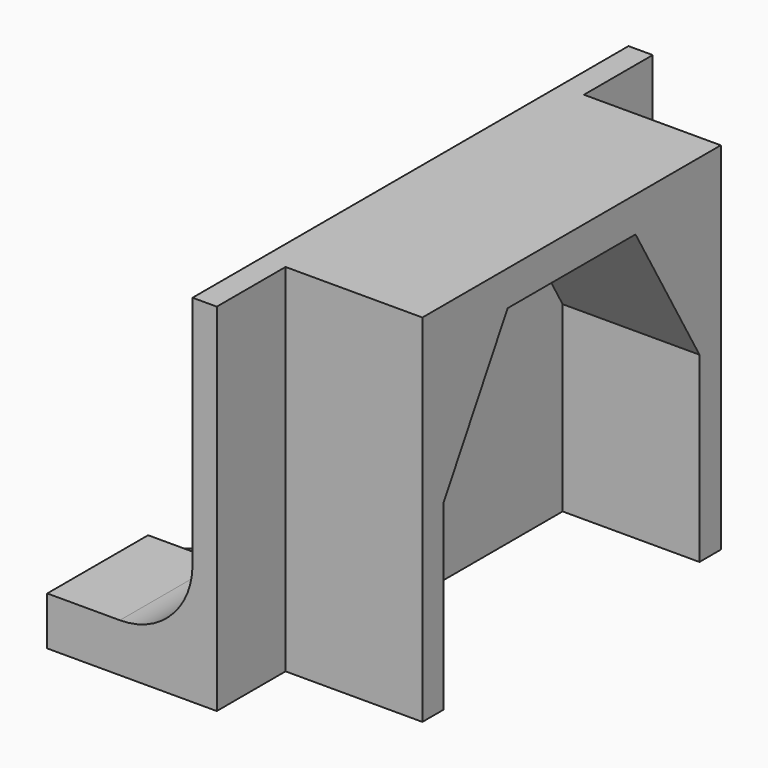
from build123d import *

# Parameters (mm, degrees)
PAD011_DEPTH = 5.65
SKETCH019_W  = 22.5
SKETCH019_H  = 14.7
PAD012_DEPTH = 1
PAD016_DEPTH = 6
FILLET_R     = 3


with BuildPart() as part:
    # Sketch018 → Pad011 (new body)
    with BuildSketch(Plane.YZ.offset(31.6)):
        Polygon((-6.6, -7.985767665), (-3.3, -2.27), (3.3, -2.27), (6.6, -7.985767665), (6.6, -15.52), (7.7, -15.52), (7.7, -0.82), (-7.7, -0.82), (-7.7, -15.52), (-6.6, -15.52), align=None)
    extrude(amount=-PAD011_DEPTH)

    # Sketch019 → Pad012 (new body)
    with BuildSketch(Plane(origin=(25.95, 0, 0), x_dir=(0, 1, 0), z_dir=(-1, 0, 0))):
        with Locations((0, 8.17)):
            Rectangle(SKETCH019_W, SKETCH019_H)
    extrude(amount=PAD012_DEPTH)

    # Sketch027 → Pad016 (new body)
    with BuildSketch(Plane(origin=(24.95, 0, 0), x_dir=(0, 1, 0), z_dir=(-1, 0, 0))):
        with BuildLine():
            Line((-11.25, 15.52), (11.25, 15.52))
            Line((11.25, 15.52), (11.25, 13.52))
            Line((11.25, 13.52), (4.0445515162, 13.52))
            ThreePointArc((4.0445515162, 13.52), (-1, 15.47), (-6.0445515162, 13.52))
            Line((-11.25, 13.52), (-6.0445515162, 13.52))
            Line((-11.25, 15.52), (-11.25, 13.52))
        make_face()
    extrude(amount=PAD016_DEPTH)

    # Fillet
    fillet_edges = [part.edges().sort_by_distance(p)[0] for p in [
        (24.95, -8.647276, -13.52),
        (24.95, 7.647276, -13.52),
    ]]
    fillet(fillet_edges, radius=FILLET_R)


solid = part.part
